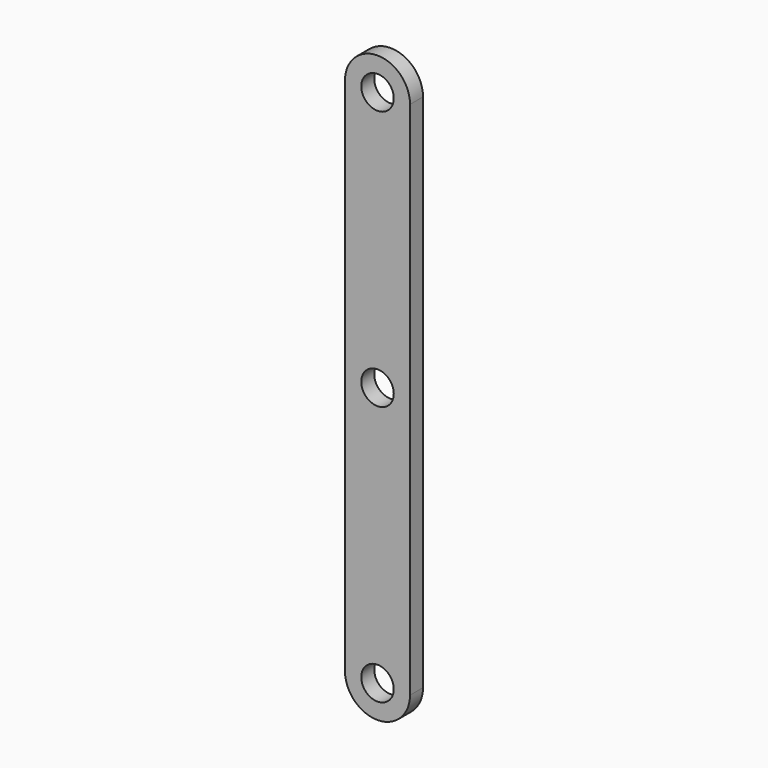
from build123d import *

# Parameters (mm, degrees)
F1_DEPTH = 5
F2_R     = 5
F3_DEPTH = 25


with BuildPart() as f1:
    # F0 (on Front) → F1 (new body)
    with BuildSketch(Plane.XZ):
        with BuildLine():
            ThreePointArc((-10, 80), (0, 70), (10, 80))
            ThreePointArc((10, 80), (0, 90), (-10, 80))
        make_face()
        with BuildLine():
            Line((10, -80), (10, 80))
            ThreePointArc((10, 80), (0, 70), (-10, 80))
            Line((-10, 80), (-10, -80))
            ThreePointArc((-10, -80), (0, -70), (10, -80))
        make_face()
        with BuildLine():
            ThreePointArc((-10, -80), (0, -90), (10, -80))
            ThreePointArc((10, -80), (0, -70), (-10, -80))
        make_face()
    extrude(amount=F1_DEPTH)

    # F2 (on face) → F3 (cut)
    with BuildSketch(Plane.XZ.offset(5)):
        with Locations((0, 80)):
            Circle(F2_R)
        with Locations((0, -80)):
            Circle(F2_R)
        Circle(F2_R)
    extrude(amount=-F3_DEPTH, mode=Mode.SUBTRACT)


solid = f1.part
